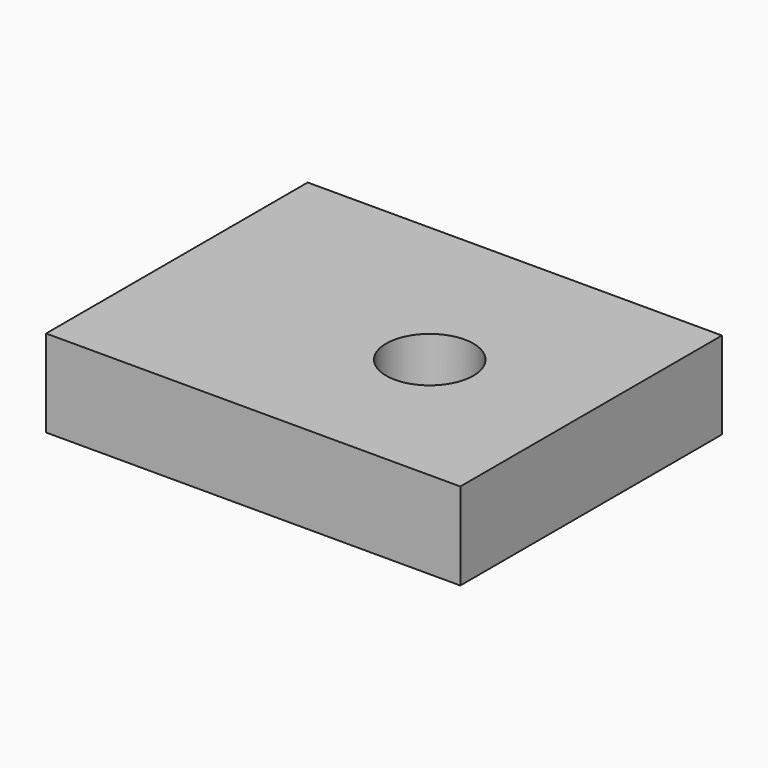
from build123d import *

# Parameters (mm, degrees)
SKETCH_W  = 9.5
SKETCH_H  = 7.5
SKETCH_R  = 1
PAD_DEPTH = 2


with BuildPart() as part:
    # Sketch → Pad (new body)
    with BuildSketch(Plane.XY):
        with Locations((4.75, 3.75)):
            Rectangle(SKETCH_W, SKETCH_H)
        with Locations((5.999352, 3.499765)):
            Circle(SKETCH_R, mode=Mode.SUBTRACT)
    extrude(amount=PAD_DEPTH)


solid = part.part
